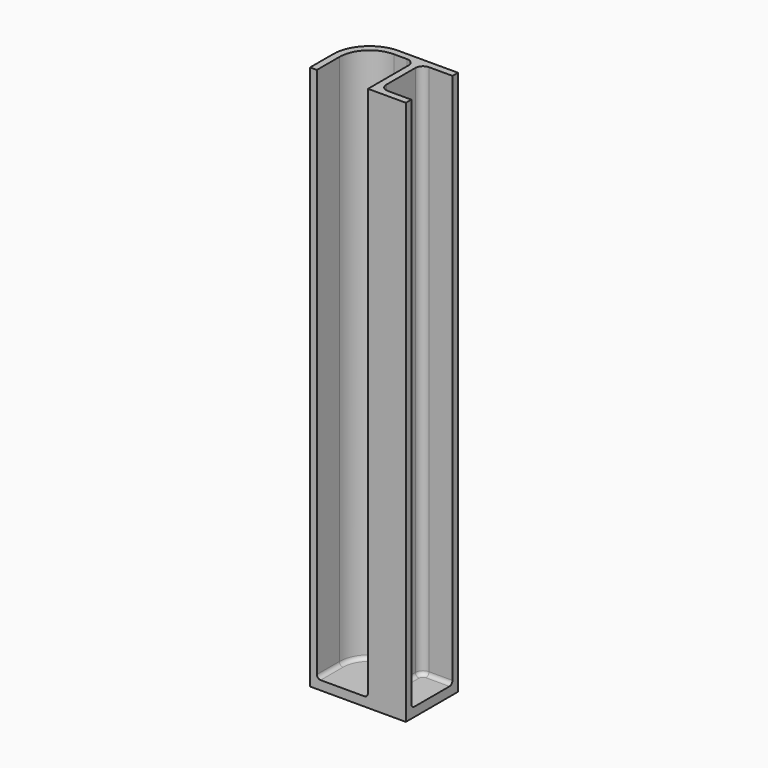
from build123d import *

# Parameters (mm, degrees)
F0_W     = 13.5
F0_H     = 1.8
F0_H_2   = 15.4
F0_W_2   = 8.2
F0_H_3   = 13.6
F1_DEPTH = 2.4
F2_DEPTH = 141.6
F3_R     = 8
F4_R     = 9.6
F5_R     = 2
F6_R     = 1


with BuildPart() as f1:
    # F0 (on Top) → F1 (new body)
    with BuildSketch(Plane.XY):
        Polygon((-13.5, -1.8), (-13.5, 0), (-15.3, 0), (-15.3, -17.2), (-13.5, -17.2), align=None)
        with Locations((-6.75, -0.9)):
            Rectangle(F0_W, F0_H)
        with Locations((-6.75, -9.5)):
            Rectangle(F0_W, F0_H_2)
        Polygon((1.8, -1.8), (0, -1.8), (0, -17.2), (1.8, -17.2), (1.8, -15.4), align=None)
        with Locations((5.9, -16.3)):
            Rectangle(F0_W_2, F0_H)
        with Locations((5.9, -8.6)):
            Rectangle(F0_W_2, F0_H_3)
        Polygon((10, 0), (0, 0), (0, -1.8), (1.8, -1.8), (10, -1.8), align=None)
    extrude(amount=-F1_DEPTH)

    # F0 (on Top) → F2 (join)
    with BuildSketch(Plane.XY):
        Polygon((-13.5, -1.8), (-13.5, 0), (-15.3, 0), (-15.3, -17.2), (-13.5, -17.2), align=None)
        Polygon((1.8, -1.8), (0, -1.8), (0, -17.2), (1.8, -17.2), (1.8, -15.4), align=None)
        with Locations((-6.75, -0.9)):
            Rectangle(F0_W, F0_H)
        Polygon((10, 0), (0, 0), (0, -1.8), (1.8, -1.8), (10, -1.8), align=None)
        with Locations((5.9, -16.3)):
            Rectangle(F0_W_2, F0_H)
    extrude(amount=F2_DEPTH)

    # F3
    f3_edges = [f1.edges().sort_by_distance(p)[0] for p in [
        (-13.5, -1.8, 70.8),
    ]]
    fillet(f3_edges, radius=F3_R)

    # F4
    f4_edges = [f1.edges().sort_by_distance(p)[0] for p in [
        (-15.3, 0, 69.6),
    ]]
    fillet(f4_edges, radius=F4_R)

    # F5
    f5_edges = [f1.edges().sort_by_distance(p)[0] for p in [
        (0, -1.8, 70.8),
        (1.8, -1.8, 70.8),
        (1.8, -15.4, 70.8),
    ]]
    fillet(f5_edges, radius=F5_R)

    # F6
    f6_edges = [f1.edges().sort_by_distance(p)[0] for p in [
        (6.9, -15.4, 0),
        (2.385786, -14.814214, 0),
        (1.8, -8.6, 0),
        (2.385786, -2.385786, 0),
        (6.9, -1.8, 0),
        (0, -10.5, 0),
        (-0.585786, -2.385786, 0),
        (-3.75, -1.8, 0),
        (-11.156854, -4.143146, 0),
        (-13.5, -13.5, 0),
    ]]
    fillet(f6_edges, radius=F6_R)


solid = f1.part
